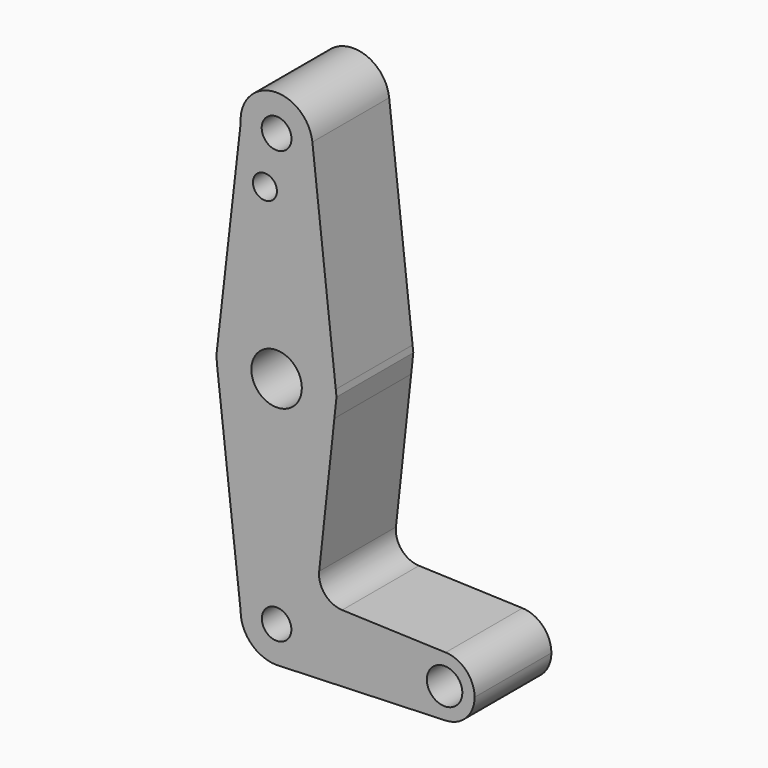
from build123d import *

# Parameters (mm, degrees)
F0_R     = 3.175
F0_R_2   = 3.943292
F0_R_3   = 6.676841
F0_R_4   = 3.907446
F0_R_5   = 4.693741
F1_DEPTH = 25.4


with BuildPart() as f1:
    # F0 (on Front) → F1 (new body)
    with BuildSketch(Plane.XZ):
        with BuildLine():
            ThreePointArc((9.46647, 115.354307), (9.510356, 114.827965), (9.525, 114.3))
            ThreePointArc((9.525, 114.3), (0.322933, 104.780476), (-9.503103, 113.654505))
            Line((-9.503103, 113.654505), (-15.677373, 59.647116))
            ThreePointArc((-15.677373, 59.647116), (-0.064576, 73.024869), (15.656539, 59.774576))
            Line((15.656539, 59.774576), (9.46647, 115.354307))
        make_face()
        with Locations((-3.090412, 100.847594)):
            Circle(F0_R, mode=Mode.SUBTRACT)
        with BuildLine():
            ThreePointArc((-9.503103, 113.654505), (0.322933, 104.780476), (9.525, 114.3))
            ThreePointArc((9.525, 114.3), (9.510356, 114.827965), (9.46647, 115.354307))
            ThreePointArc((9.46647, 115.354307), (-0.850098, 123.786989), (-9.503103, 113.654505))
        make_face()
        with Locations((0, 114.3)):
            Circle(F0_R_2, mode=Mode.SUBTRACT)
        with BuildLine():
            Line((15.850344, 58.034433), (15.656539, 59.774576))
            ThreePointArc((15.656539, 59.774576), (-0.064576, 73.024869), (-15.677373, 59.647116))
            ThreePointArc((-15.677373, 59.647116), (-15.870882, 57.511564), (-15.774826, 55.369415))
            ThreePointArc((-15.774826, 55.369415), (-1.27237, 41.326072), (15.287647, 52.871746))
            Line((15.287647, 52.871746), (15.850344, 58.034433))
        make_face()
        with Locations((0, 57.15)):
            Circle(F0_R_3, mode=Mode.SUBTRACT)
        with BuildLine():
            ThreePointArc((15.287647, 52.871746), (-1.27237, 41.326072), (-15.774826, 55.369415))
            Line((-15.774826, 55.369415), (-9.525, 0))
            ThreePointArc((-9.525, 0), (0, 9.525), (9.525, 0))
            ThreePointArc((9.525, 0), (6.970557, -6.491299), (0.677344, -9.500886))
            Line((0.677344, -9.500886), (44.732405, -7.932475))
            ThreePointArc((44.732405, -7.932475), (36.5125, 0), (44.732405, 7.932475))
            Line((44.732405, 7.932475), (17.349187, 8.907349))
            ThreePointArc((17.349187, 8.907349), (12.773294, 11.098205), (11.262496, 15.941359))
            Line((11.262496, 15.941359), (15.287647, 52.871746))
        make_face()
        with BuildLine():
            ThreePointArc((9.525, 0), (0, 9.525), (-9.525, 0))
            ThreePointArc((-9.525, 0), (-6.735192, -6.735192), (0, -9.525))
            Line((0, -9.525), (0.677344, -9.500886))
            ThreePointArc((0.677344, -9.500886), (6.970557, -6.491299), (9.525, 0))
        make_face()
        Circle(F0_R_4, mode=Mode.SUBTRACT)
        with BuildLine():
            ThreePointArc((52.3875, 0), (50.161633, 5.51191), (44.732405, 7.932475))
            ThreePointArc((44.732405, 7.932475), (36.5125, 0), (44.732405, -7.932475))
            ThreePointArc((44.732405, -7.932475), (50.161633, -5.51191), (52.3875, 0))
        make_face()
        with Locations((44.45, 0)):
            Circle(F0_R_5, mode=Mode.SUBTRACT)
    extrude(amount=F1_DEPTH)


solid = f1.part
